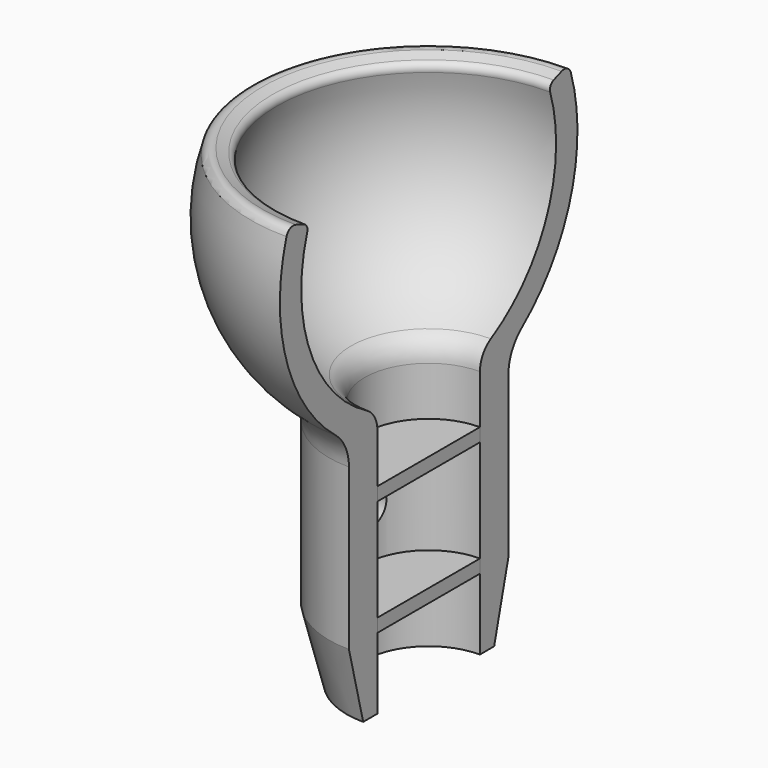
from build123d import *

# Parameters (mm, degrees)
F1_ANGLE_BACK = 90
F1_ANGLE      = 180
F2_R          = 2.5
F3_DEPTH      = 20.901
F4_W          = 14.4
F4_H          = 1.5


with BuildPart() as f1:
    # F0 (on Front) → F1 (revolve)
    with BuildSketch(Plane.XZ, mode=Mode.PRIVATE) as f1_sk:
        with BuildLine():
            ThreePointArc((-8.7358851675, -15.6235178606), (-16.6406875767, -6.5952647388), (-17.0670091011, 5.3969621402))
            ThreePointArc((-17.0670091011, 5.3969621402), (-17.1121338207, 5.9916969311), (-17.5561643429, 6.3899212487))
            Line((-17.5561643429, 6.3899212487), (-18.6762578623, 6.7976019493))
            ThreePointArc((-18.6762578623, 6.7976019493), (-19.4635415113, 6.75330891), (-19.9739703677, 6.1522766315))
            ThreePointArc((-19.9739703677, 6.1522766315), (-19.978069118, -6.1389538455), (-13.0725868726, -16.3069761899))
            ThreePointArc((-13.0725868726, -16.3069761899), (-11.6923916742, -18.0444968248), (-11.2, -20.208166666))
            Line((-11.2, -20.208166666), (-11.2, -38.2419845412))
            Line((-11.2, -38.2419845412), (-9.2, -46.2419845412))
            Line((-9.2, -46.2419845412), (-7.2, -46.2419845412))
            Line((-7.2, -46.2419845412), (-7.2, -18.2419845412))
            ThreePointArc((-7.2, -18.2419845412), (-7.6123036792, -16.7241480048), (-8.7358851675, -15.6235178606))
        make_face()
    revolve(f1_sk.sketch.rotate(Axis((0, 0, 19.9308469892), (0, 0, 1)), -F1_ANGLE_BACK), axis=Axis((0, 0, 19.9308469892), (0, 0, 1)), revolution_arc=F1_ANGLE)

    # F2 (on Right) → F3 (cut, through all)
    with BuildSketch(Plane.YZ):
        with Locations((0, -31.2419845412)):
            Circle(F2_R)
    extrude(amount=-F3_DEPTH, mode=Mode.SUBTRACT)


with BuildPart() as f5:
    # F4 (on Right) → F5 (new body, up to the last surface of F1)
    with BuildSketch(Plane.YZ):
        with Locations((0, -24.4919845412)):
            Rectangle(F4_W, F4_H)
    extrude(until=Until.LAST, target=f1.part, dir=(-1, 0, 0))


with BuildPart() as f5b:
    # F4 (on Right) → F5, piece 2 (new body, up to the last surface of F1)
    with BuildSketch(Plane.YZ):
        with Locations((0, -37.4919845412)):
            Rectangle(F4_W, F4_H)
    extrude(until=Until.LAST, target=f1.part, dir=(-1, 0, 0))


solid = Compound([f1.part, f5.part, f5b.part])
